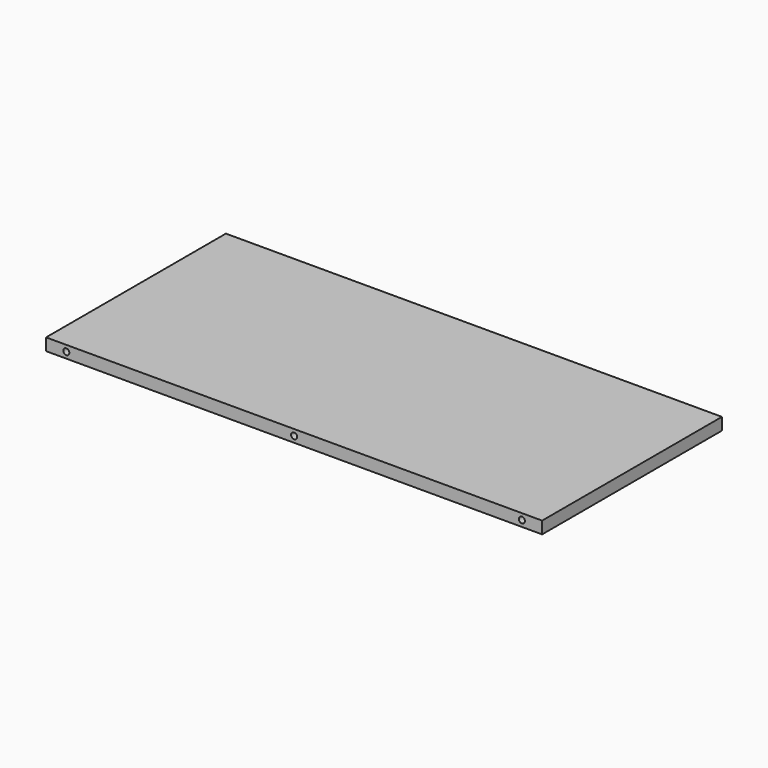
from build123d import *

# Parameters (mm, degrees)
F0_W     = 245
F0_H     = 111
F1_DEPTH = 6
F3_D     = 3
F3_DEPTH = 20
F3_TIP   = 0.9012909285
F5_D     = 3
F5_DEPTH = 20
F5_TIP   = 0.9012909285


with BuildPart() as f1:
    # F0 (on Top) → F1 (new body)
    with BuildSketch(Plane.XY):
        with Locations((122.5, 55.5)):
            Rectangle(F0_W, F0_H)
    extrude(amount=F1_DEPTH)

    # F3
    with Locations(Plane.XZ):
        with Locations((10, 3), (122.5, 3), (235, 3)):
            Hole(F3_D / 2, depth=F3_DEPTH)
            with Locations((0, 0, -(F3_DEPTH + F3_TIP / 2))):  # 118° drill point
                Cone(0, F3_D / 2, F3_TIP, mode=Mode.SUBTRACT)

    # F5
    with Locations(Plane(origin=(0, 111, 0), x_dir=(-1, 0, 0), z_dir=(0, 1, 0))):
        with Locations((-235, 3), (-122.5, 3), (-10, 3)):
            Hole(F5_D / 2, depth=F5_DEPTH)
            with Locations((0, 0, -(F5_DEPTH + F5_TIP / 2))):  # 118° drill point
                Cone(0, F5_D / 2, F5_TIP, mode=Mode.SUBTRACT)


solid = f1.part
